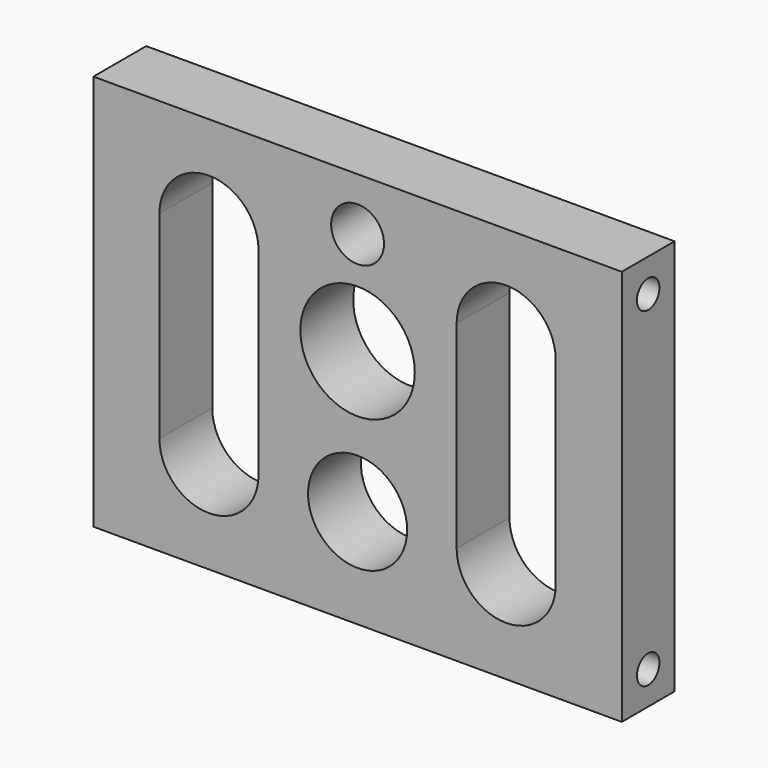
from build123d import *

# Parameters (mm, degrees)
F0_W     = 101.6
F0_H     = 76.2
F1_DEPTH = 12.7
F2_R     = 11
F3_DEPTH = 25.4
F4_R     = 9.525
F4_R_2   = 5.08
F5_DEPTH = 25.4
F6_R     = 2.7051
F7_DEPTH = 12.7
F8_R     = 2.7051
F9_DEPTH = 12.7


with BuildPart() as f1:
    # F0 (on Front) → F1 (new body)
    with BuildSketch(Plane.XZ):
        with Locations((50.8, 38.1)):
            Rectangle(F0_W, F0_H)
    extrude(amount=F1_DEPTH)

    # F2 (on face) → F3 (cut)
    with BuildSketch(Plane.XZ.offset(12.7)):
        with Locations((50.8, 46.2)):
            Circle(F2_R)
    extrude(amount=-F3_DEPTH, mode=Mode.SUBTRACT)

    # F4 (on face) → F5 (cut)
    with BuildSketch(Plane.XZ.offset(12.7)):
        with Locations((50.8, 19.05)):
            Circle(F4_R)
        with BuildLine():
            ThreePointArc((31.75, 57.15), (22.225, 66.675), (12.7, 57.15))
            Line((12.7, 57.15), (12.7, 38.1))
            Line((12.7, 38.1), (31.75, 38.1))
            Line((31.75, 38.1), (31.75, 57.15))
        make_face()
        with BuildLine():
            Line((31.75, 38.1), (12.7, 38.1))
            Line((12.7, 38.1), (12.7, 19.05))
            ThreePointArc((12.7, 19.05), (22.225, 9.525), (31.75, 19.05))
            Line((31.75, 19.05), (31.75, 38.1))
        make_face()
        with BuildLine():
            ThreePointArc((88.9, 57.15), (79.375, 66.675), (69.85, 57.15))
            Line((69.85, 57.15), (69.85, 19.05))
            ThreePointArc((69.85, 19.05), (79.375, 9.525), (88.9, 19.05))
            Line((88.9, 19.05), (88.9, 57.15))
        make_face()
        with Locations((50.8, 66.04)):
            Circle(F4_R_2)
    extrude(amount=-F5_DEPTH, mode=Mode.SUBTRACT)

    # F6 (on face) → F7 (cut)
    with BuildSketch(Plane.YZ.offset(101.6)):
        with Locations((-6.35, 69.85)):
            Circle(F6_R)
        with Locations((-6.35, 6.35)):
            Circle(F6_R)
    extrude(amount=-F7_DEPTH, mode=Mode.SUBTRACT)

    # F8 (on face) → F9 (cut)
    with BuildSketch(Plane(origin=(0, 0, 0), x_dir=(0, -1, 0), z_dir=(-1, 0, 0))):
        with Locations((6.35, 70.7898)):
            Circle(F8_R)
        with Locations((6.35, 5.4102)):
            Circle(F8_R)
    extrude(amount=-F9_DEPTH, mode=Mode.SUBTRACT)


solid = f1.part
